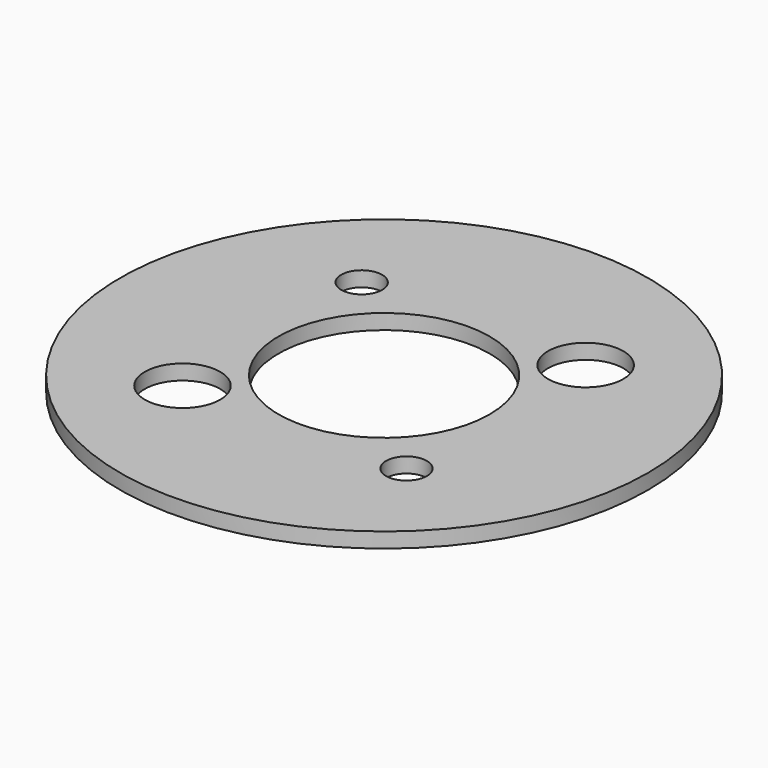
from build123d import *

# Parameters (mm, degrees)
F0_R     = 27.78125
F0_R_2   = 3.96875
F0_R_3   = 2.15265
F0_R_4   = 11.1125
F1_DEPTH = 1.5875


with BuildPart() as f1:
    # F0 (on Top) → F1 (new body)
    with BuildSketch(Plane.XY):
        Circle(F0_R)
        with Locations((-11.786586, -11.786586)):
            Circle(F0_R_2, mode=Mode.SUBTRACT)
        with Locations((11.786586, -11.786586)):
            Circle(F0_R_3, mode=Mode.SUBTRACT)
        with Locations((-11.786586, 11.786586)):
            Circle(F0_R_3, mode=Mode.SUBTRACT)
        Circle(F0_R_4, mode=Mode.SUBTRACT)
        with Locations((11.786586, 11.786586)):
            Circle(F0_R_2, mode=Mode.SUBTRACT)
    extrude(amount=F1_DEPTH)


solid = f1.part
